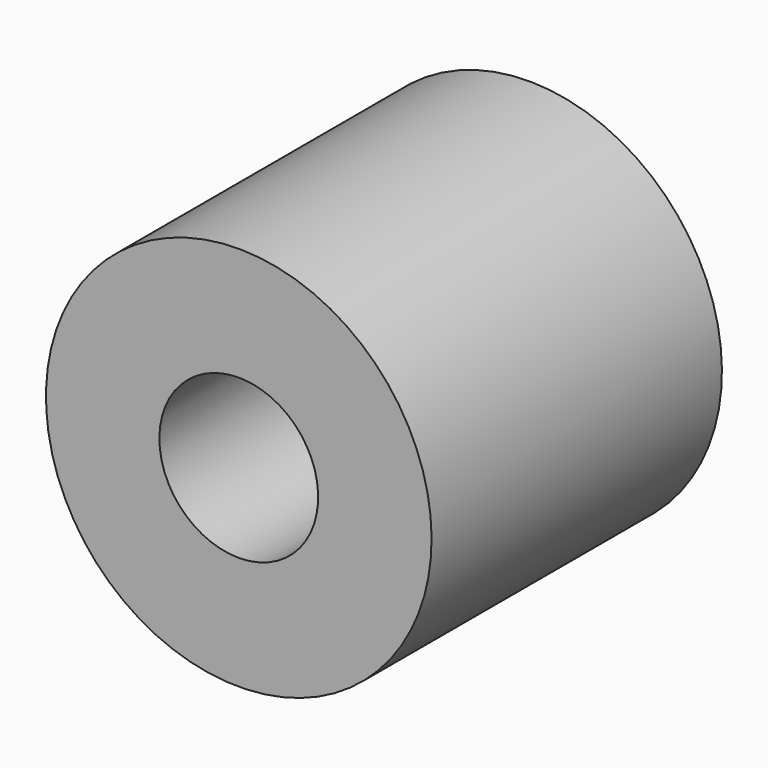
from build123d import *

# Parameters (mm, degrees)
CYLINDER_R        = 1.75
CYLINDER_DEPTH    = 10
CYLINDER001_R     = 4.25
CYLINDER001_DEPTH = 8
CLONE_ROLL_ANGLE  = 90
CLONE_PITCH_ANGLE = -45


with BuildPart() as spacer_hole_cylinder:
    # Cylinder → Cylinder (new body)
    with BuildSketch(Plane.XY.offset(-1)):
        Circle(CYLINDER_R)
    extrude(amount=CYLINDER_DEPTH)


with BuildPart() as x_motor_spacer_left:
    # Cylinder001 → Cylinder001 (new body)
    with BuildSketch(Plane.XY):
        Circle(CYLINDER001_R)
    extrude(amount=CYLINDER001_DEPTH)

    # Cut002: cut spacer-hole-cylinder
    add(spacer_hole_cylinder.part, mode=Mode.SUBTRACT)


with BuildPart() as x_motor_spacer_left_1:
    # Clone roll: moved
    add(x_motor_spacer_left.part.rotate(Axis((0, 0, 0), (1, 0, 0)), CLONE_ROLL_ANGLE))


with BuildPart() as x_motor_spacer_left_2:
    # Clone pitch: moved
    add(x_motor_spacer_left_1.part.rotate(Axis((0, 0, 0), (0, 1, 0)), CLONE_PITCH_ANGLE))


with BuildPart() as x_motor_spacer_left_3:
    # Clone placement: moved
    add(x_motor_spacer_left_2.part.moved(Location((-67.884776, 1, 23))))


solid = x_motor_spacer_left_3.part
